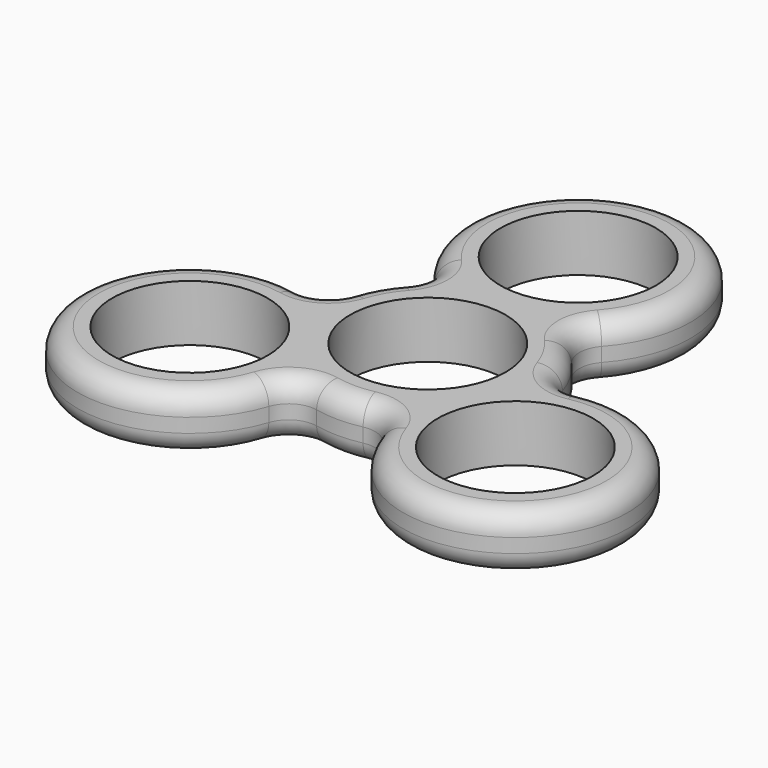
from build123d import *

# Parameters (mm, degrees)
F1_DEPTH = 4
F2_R     = 11
F3_DEPTH = 4.5
F4_R     = 3


with BuildPart() as f1:
    # F0 (on Top) → F1 (new body, symmetric)
    with BuildSketch(Plane.XY):
        with BuildLine():
            ThreePointArc((11.827285, 15.973367), (0, 42.5), (-11.827285, 15.973367))
            ThreePointArc((-11.827285, 15.973367), (-10.802702, 13.3), (-11.827285, 10.626633))
            ThreePointArc((-11.827285, 10.626633), (-13.769804, 7.95), (-15.116577, 4.929413))
            ThreePointArc((-15.116577, 4.929413), (-16.919489, 2.705415), (-19.746984, 2.256046))
            ThreePointArc((-19.746984, 2.256046), (-36.80608, -21.25), (-7.919699, -18.229413))
            ThreePointArc((-7.919699, -18.229413), (-6.116787, -16.005415), (-3.289292, -15.556046))
            ThreePointArc((-3.289292, -15.556046), (0, -15.9), (3.289292, -15.556046))
            ThreePointArc((3.289292, -15.556046), (6.116787, -16.005415), (7.919699, -18.229413))
            ThreePointArc((7.919699, -18.229413), (36.80608, -21.25), (19.746984, 2.256046))
            ThreePointArc((19.746984, 2.256046), (16.919489, 2.705415), (15.116577, 4.929413))
            ThreePointArc((15.116577, 4.929413), (13.769804, 7.95), (11.827285, 10.626633))
            ThreePointArc((11.827285, 10.626633), (10.802702, 13.3), (11.827285, 15.973367))
        make_face()
    extrude(amount=F1_DEPTH, both=True)

    # F2 (on Top) → F3 (cut, symmetric)
    with BuildSketch(Plane.XY):
        with Locations((0, 26.6)):
            Circle(F2_R)
        with Locations((-23.036276, -13.3)):
            Circle(F2_R)
        with Locations((23.036276, -13.3)):
            Circle(F2_R)
        Circle(F2_R)
    extrude(amount=F3_DEPTH, both=True, mode=Mode.SUBTRACT)

    # F4
    f4_edges = [f1.edges().sort_by_distance(p)[0] for p in [
        (-6.116787, -16.005415, 4),
        (6.116787, -16.005415, -4),
    ]]
    fillet(f4_edges, radius=F4_R)


solid = f1.part
